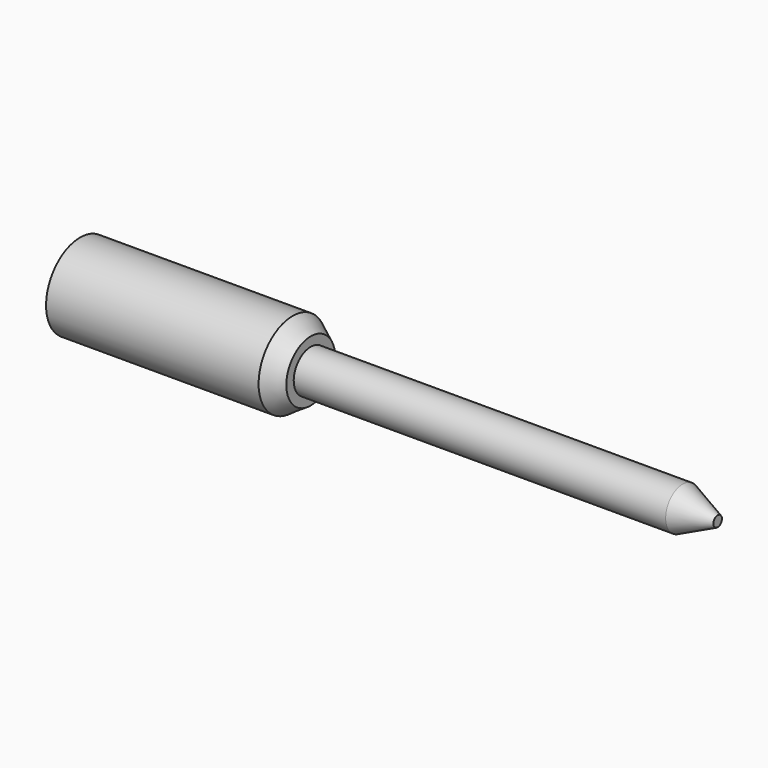
from build123d import *


with BuildPart() as part:
    # Sketch → Revolution (revolve)
    with BuildSketch(Plane.XZ):
        Polygon((0, -4), (20, -4), (21.705456, -2.869457), (21.705456, -2), (56.705456, -2), (60, -0.5), (60, 0), (0, 0), align=None)
    revolve(axis=Axis((0, 0, 0), (1, 0, 0)))


solid = part.part
